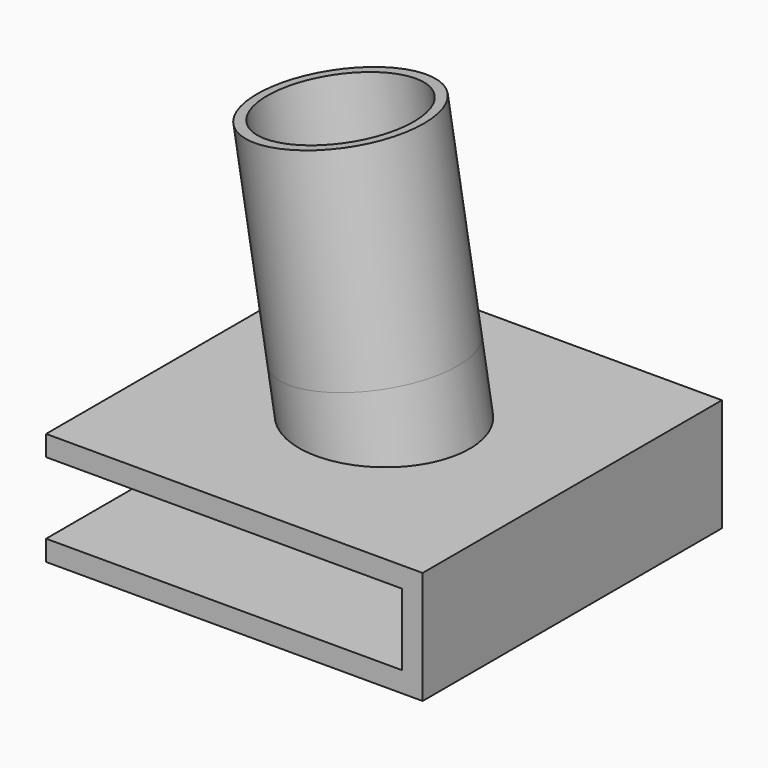
from build123d import *

# Parameters (mm, degrees)
F2_R      = 10.4775
F2_R_2    = 9.2075
F3_DEPTH  = 25.4
F4_DEPTH  = 25.4
F5_W      = 41.5304042399
F5_H      = 20.5683773383
F6_DEPTH  = 127
F7_W      = 46.6519938795
F7_H      = 46.355
F8_DEPTH  = 2.54
F9_W      = 2.54
F9_H      = 46.355
F10_DEPTH = 8.89
F11_W     = 46.6519938795
F11_H     = 46.355
F12_DEPTH = 2.54
F13_R     = 1.7499965
F14_DEPTH = 2.54


with BuildPart() as f3:
    # F2 (on line) → F3 (new body)
    with BuildSketch(Plane(origin=(0, 0, 0), x_dir=(0.9860251287, 0, 0.1665966554), z_dir=(0.1665966554, 0, -0.9860251287))):
        with Locations((41.0343617785, 0)):
            Circle(F2_R)
        with Locations((41.0343617785, 0)):
            Circle(F2_R_2, mode=Mode.SUBTRACT)
    extrude(amount=-F3_DEPTH)

    # F4 (add): a face of the model
    f4_faces = [f3.faces().sort_by_distance(p)[0] for p in [
        (30.422040588, 0, 5.1400416329),
    ]]
    extrude(f4_faces, amount=F4_DEPTH)

    # F5 (on Front) → F6 (cut, symmetric)
    with BuildSketch(Plane.XZ):
        with Locations((39.1329098493, -10.2841886692)):
            Rectangle(F5_W, F5_H)
    extrude(amount=F6_DEPTH, both=True, mode=Mode.SUBTRACT)

    # F7 (on Top) → F8 (join)
    with BuildSketch(Plane.XY):
        with Locations((41.6159391729, 0)):
            Rectangle(F7_W, F7_H)
    extrude(amount=-F8_DEPTH)

    # F9 (on face) → F10 (join)
    with BuildSketch(Plane(origin=(0, 0, -2.54), x_dir=(1, 0, 0), z_dir=(0, 0, -1))):
        with Locations((63.6719361126, 0)):
            Rectangle(F9_W, F9_H)
    extrude(amount=F10_DEPTH)

    # F11 (on face) → F12 (join)
    with BuildSketch(Plane(origin=(0, 0, -11.43), x_dir=(1, 0, 0), z_dir=(0, 0, -1))):
        with Locations((41.6159391729, 0)):
            Rectangle(F11_W, F11_H)
    extrude(amount=F12_DEPTH)

    # F13 (on face) → F14 (cut)
    with BuildSketch(Plane(origin=(0, 0, -13.97), x_dir=(1, 0, 0), z_dir=(0, 0, -1))):
        with Locations((23.9529660876, 0)):
            Circle(F13_R)
        with Locations((56.1965306676, 0)):
            Circle(F13_R)
    extrude(amount=-F14_DEPTH, mode=Mode.SUBTRACT)


solid = f3.part
